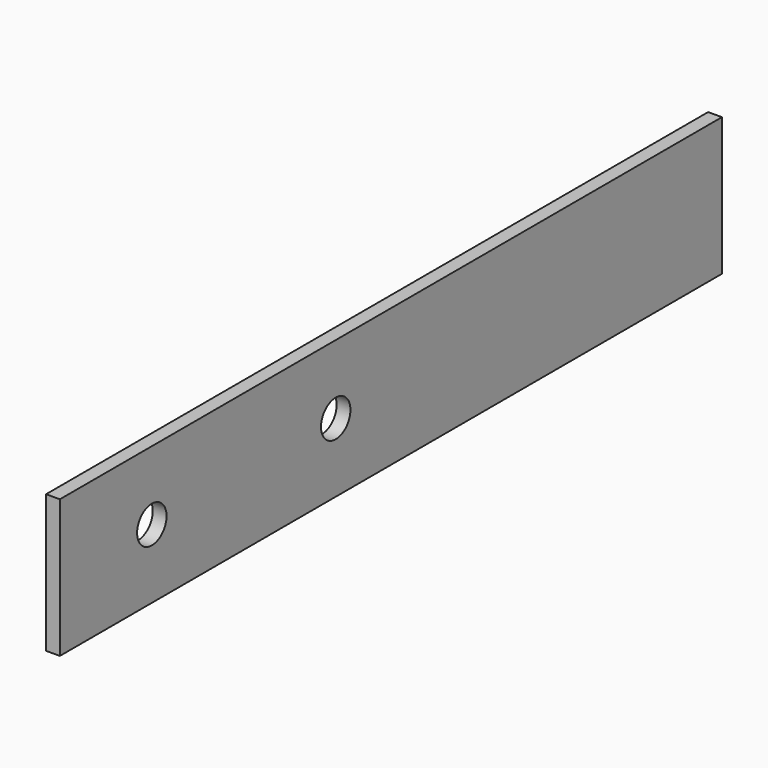
from build123d import *

# Parameters (mm, degrees)
F0_W     = 3
F0_H     = 30
F1_DEPTH = 180
F2_R     = 4
F3_DEPTH = 25


with BuildPart() as f1:
    # F0 (on Front) → F1 (new body)
    with BuildSketch(Plane.XZ):
        with Locations((1.5, 25)):
            Rectangle(F0_W, F0_H)
    extrude(amount=F1_DEPTH)

    # F2 (on face) → F3 (cut)
    with BuildSketch(Plane(origin=(0, 0, 0), x_dir=(0, -1, 0), z_dir=(-1, 0, 0))):
        with Locations((155, 25)):
            Circle(F2_R)
        with Locations((105, 25)):
            Circle(F2_R)
    extrude(amount=-F3_DEPTH, mode=Mode.SUBTRACT)


solid = f1.part
